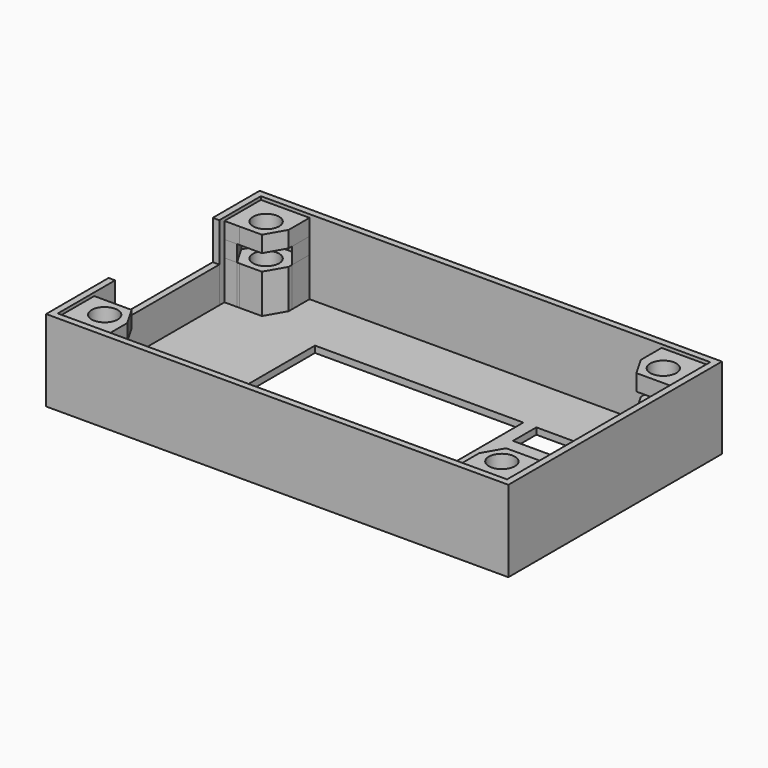
from build123d import *

# Parameters (mm, degrees)
F0_R      = 2
F1_DEPTH  = 7
F2_DEPTH  = 7
F3_DEPTH  = 2.5
F4_START  = 2.5
F1_FACE_R = 2
F4_DEPTH  = 2.5
F0_W      = 32
F0_H      = 23
F0_W_2    = 9.5
F0_H_2    = 4.5
F5_DEPTH  = 1
F6_DEPTH  = 12.5
F0_W_3    = 1
F0_H_3    = 20
F7_DEPTH  = 6.5


with BuildPart() as f1:
    # F0 (on Top) → F1 (new body)
    with BuildSketch(Plane.XY):
        Polygon((56.2425711751, 29.4110085815), (56.2425711751, 36.414245103), (54.3157895307, 36.414245103), (56.0530762776, 33.4181404888), (54.1540001392, 30.1145803152), (50.3434950368, 30.1074484079), (48.7784756274, 32.8064627658), (48.7784756274, 29.4110085815), align=None)
        Polygon((56.0530762776, 33.4181404888), (54.3157895307, 36.414245103), (53.9690040281, 36.414245103), (50.5049084804, 36.4077615509), (48.7784756274, 33.4045250294), (48.7784756274, 32.8064627658), (50.3434950368, 30.1074484079), (54.1540001392, 30.1145803152), align=None)
        with Locations((52.2425711751, 33.4110085815)):
            Circle(F0_R, mode=Mode.SUBTRACT)
    extrude(amount=F1_DEPTH)


with BuildPart() as f1b:
    # F0 (on Top) → F1, piece 2 (new body)
    with BuildSketch(Plane.XY):
        Polygon((-10.8411283625, 36.4077615509), (-12.7574288249, 36.4077615509), (-12.7574288249, 29.4110085815), (-5.2933332772, 29.4110085815), (-5.2933332772, 32.8155396842), (-6.8459998608, 30.1145803152), (-10.6565049632, 30.1074484079), (-12.5679339274, 33.4038766742), align=None)
        Polygon((-10.4950915196, 36.4077615509), (-10.8411283625, 36.4077615509), (-12.5679339274, 33.4038766742), (-10.6565049632, 30.1074484079), (-6.8459998608, 30.1145803152), (-5.2933332772, 32.8155396842), (-5.2933332772, 33.4174921336), (-7.0309959719, 36.414245103), align=None)
        with Locations((-8.7574288249, 33.4110085815)):
            Circle(F0_R, mode=Mode.SUBTRACT)
    extrude(amount=F1_DEPTH)


with BuildPart() as f1c:
    # F0 (on Top) → F1, piece 3 (new body)
    with BuildSketch(Plane.XY):
        Polygon((-5.2933332772, 68.4110085815), (-12.7574288249, 68.4110085815), (-12.7574288249, 61.40777206), (-10.8306471805, 61.40777206), (-12.5679339274, 64.4038766742), (-10.668857789, 67.7074368479), (-6.8583526866, 67.7145687551), (-5.2933332772, 65.0155543972), align=None)
        Polygon((-5.2933332772, 64.4174921336), (-5.2933332772, 65.0155543972), (-6.8583526866, 67.7145687551), (-10.668857789, 67.7074368479), (-12.5679339274, 64.4038766742), (-10.8306471805, 61.40777206), (-10.4838616779, 61.40777206), (-7.0197661302, 61.4142556121), align=None)
        with Locations((-8.7574288249, 64.4110085815)):
            Circle(F0_R, mode=Mode.SUBTRACT)
    extrude(amount=F1_DEPTH)


with BuildPart() as f1d:
    # F0 (on Top) → F1, piece 4 (new body)
    with BuildSketch(Plane.XY):
        Polygon((56.2425711751, 68.4110085815), (48.7784756274, 68.4110085815), (48.7784756274, 65.0064774788), (50.331142211, 67.7074368479), (54.1416473134, 67.7145687551), (56.0530762776, 64.4181404888), (54.3266434245, 61.4149039673), (56.2425711751, 61.4184899011), align=None)
        Polygon((50.331142211, 67.7074368479), (48.7784756274, 65.0064774788), (48.7784756274, 64.4045250294), (50.5161383221, 61.40777206), (53.9802338698, 61.4142556121), (54.3266434245, 61.4149039673), (56.0530762776, 64.4181404888), (54.1416473134, 67.7145687551), align=None)
        with Locations((52.2425711751, 64.4110085815)):
            Circle(F0_R, mode=Mode.SUBTRACT)
    extrude(amount=F1_DEPTH)


with BuildPart() as f2:
    # F0 (on Top) → F2 (new body, through all)
    with BuildSketch(Plane.XY):
        Polygon((56.2425711751, 29.4110085815), (56.2425711751, 36.414245103), (54.3157895307, 36.414245103), (56.0530762776, 33.4181404888), (54.1540001392, 30.1145803152), (50.3434950368, 30.1074484079), (48.7784756274, 32.8064627658), (48.7784756274, 29.4110085815), align=None)
    extrude(amount=F2_DEPTH)


with BuildPart() as f2b:
    # F0 (on Top) → F2, piece 2 (new body, through all)
    with BuildSketch(Plane.XY):
        Polygon((56.2425711751, 68.4110085815), (48.7784756274, 68.4110085815), (48.7784756274, 65.0064774788), (50.331142211, 67.7074368479), (54.1416473134, 67.7145687551), (56.0530762776, 64.4181404888), (54.3266434245, 61.4149039673), (56.2425711751, 61.4184899011), align=None)
    extrude(amount=F2_DEPTH)


with BuildPart() as f2c:
    # F0 (on Top) → F2, piece 3 (new body, through all)
    with BuildSketch(Plane.XY):
        Polygon((-5.2933332772, 68.4110085815), (-12.7574288249, 68.4110085815), (-12.7574288249, 61.40777206), (-10.8306471805, 61.40777206), (-12.5679339274, 64.4038766742), (-10.668857789, 67.7074368479), (-6.8583526866, 67.7145687551), (-5.2933332772, 65.0155543972), align=None)
    extrude(amount=F2_DEPTH)


with BuildPart() as f2d:
    # F0 (on Top) → F2, piece 4 (new body, through all)
    with BuildSketch(Plane.XY):
        Polygon((-10.8411283625, 36.4077615509), (-12.7574288249, 36.4077615509), (-12.7574288249, 29.4110085815), (-5.2933332772, 29.4110085815), (-5.2933332772, 32.8155396842), (-6.8459998608, 30.1145803152), (-10.6565049632, 30.1074484079), (-12.5679339274, 33.4038766742), align=None)
    extrude(amount=F2_DEPTH)


with BuildPart() as f3:
    # F3 (new): a face of the model
    f3_faces = [f2.part.faces().sort_by_distance(p)[0] for p in [
        (56.1402197979, 32.9126268423, 7),
    ]]
    extrude(f3_faces, amount=F3_DEPTH)

    # F1_face (on face) → F4 (join)
    with BuildSketch(Plane(origin=(52.8230493213, 32.5673462874, 7), x_dir=(1, 0, 0), z_dir=(0, 0, 1)).offset(F4_START)):
        Polygon((3.4195218538, -3.1563377059), (3.4195218538, 3.8468988156), (1.1459547068, 3.8468988156), (-2.3181408409, 3.8404152635), (-4.0445736939, 0.837178742), (-4.0445736939, -3.1563377059), align=None)
        with Locations((-0.5804781462, 0.8436622941)):
            Circle(F1_FACE_R, mode=Mode.SUBTRACT)
    extrude(amount=F4_DEPTH)


with BuildPart() as f3b:
    # F3#2 (new): a face of the model
    f3_2_faces = [f2d.part.faces().sort_by_distance(p)[0] for p in [
        (-11.7007240321, 31.7043432897, 7),
    ]]
    extrude(f3_2_faces, amount=F3_DEPTH)


with BuildPart() as f3c:
    # F3#3 (new): a face of the model
    f3_3_faces = [f2c.part.faces().sort_by_distance(p)[0] for p in [
        (-5.9873000269, 66.4164030753, 7),
    ]]
    extrude(f3_3_faces, amount=F3_DEPTH)


with BuildPart() as f3d:
    # F3#4 (new): a face of the model
    f3_4_faces = [f2b.part.faces().sort_by_distance(p)[0] for p in [
        (52.5105234013, 68.3087059901, 7),
    ]]
    extrude(f3_4_faces, amount=F3_DEPTH)


with BuildPart() as f4:
    # F1_face (on face) → F4, piece 2 (new body)
    with BuildSketch(Plane(origin=(52.8230493213, 32.5673462874, 7), x_dir=(1, 0, 0), z_dir=(0, 0, 1)).offset(F4_START)):
        Polygon((-65.5804781462, 3.8404152635), (-65.5804781462, -3.1563377059), (-58.1163825985, -3.1563377059), (-58.1163825985, 0.8501458462), (-59.8540452932, 3.8468988156), (-63.3181408409, 3.8404152635), align=None)
        with Locations((-61.5804781462, 0.8436622941)):
            Circle(F1_FACE_R, mode=Mode.SUBTRACT)
    extrude(amount=F4_DEPTH)


with BuildPart() as f4b:
    # F1_face (on face) → F4, piece 3 (new body)
    with BuildSketch(Plane(origin=(52.8230493213, 32.5673462874, 7), x_dir=(1, 0, 0), z_dir=(0, 0, 1)).offset(F4_START)):
        Polygon((-58.1163825985, 35.8436622941), (-65.5804781462, 35.8436622941), (-65.5804781462, 28.8404257726), (-63.3069109992, 28.8404257726), (-59.8428154515, 28.8469093247), (-58.1163825985, 31.8501458462), align=None)
        with Locations((-61.5804781462, 31.8436622941)):
            Circle(F1_FACE_R, mode=Mode.SUBTRACT)
    extrude(amount=F4_DEPTH)


with BuildPart() as f4c:
    # F1_face (on face) → F4, piece 4 (new body)
    with BuildSketch(Plane(origin=(52.8230493213, 32.5673462874, 7), x_dir=(1, 0, 0), z_dir=(0, 0, 1)).offset(F4_START)):
        Polygon((3.4195218538, 35.8436622941), (-4.0445736939, 35.8436622941), (-4.0445736939, 31.837178742), (-2.3069109992, 28.8404257726), (3.4195218538, 28.8511436137), align=None)
        with Locations((-0.5804781462, 31.8436622941)):
            Circle(F1_FACE_R, mode=Mode.SUBTRACT)
    extrude(amount=F4_DEPTH)


with BuildPart() as f5:
    # F0 (on Top) → F5 (new body)
    with BuildSketch(Plane.XY):
        Polygon((48.7784756274, 68.4110085815), (-5.2933332772, 68.4110085815), (-5.2933332772, 65.0155543972), (-5.2933332772, 64.4174921336), (-7.0197661302, 61.4142556121), (-10.4838616779, 61.40777206), (-10.8306471805, 61.40777206), (-12.7574288249, 61.40777206), (-12.7574288249, 60.4110085815), (-12.7574288249, 40.4110085815), (-12.7574288249, 36.4077615509), (-10.8411283625, 36.4077615509), (-10.4950915196, 36.4077615509), (-7.0309959719, 36.414245103), (-5.2933332772, 33.4174921336), (-5.2933332772, 32.8155396842), (-5.2933332772, 29.4110085815), (48.7784756274, 29.4110085815), (48.7784756274, 32.8064627658), (48.7784756274, 33.4045250294), (50.5049084804, 36.4077615509), (53.9690040281, 36.414245103), (54.3157895307, 36.414245103), (56.2425711751, 36.414245103), (56.2425711751, 61.4184899011), (54.3266434245, 61.4149039673), (53.9802338698, 61.4142556121), (50.5161383221, 61.40777206), (48.7784756274, 64.4045250294), (48.7784756274, 65.0064774788), align=None)
        with Locations((18.7425711751, 47.9110085815)):
            Rectangle(F0_W, F0_H, mode=Mode.SUBTRACT)
        with Locations((41.4925711751, 38.6610085815)):
            Rectangle(F0_W_2, F0_H_2, mode=Mode.SUBTRACT)
        with Locations((41.4925711751, 48.1610085815)):
            Rectangle(F0_W_2, F0_H_2, mode=Mode.SUBTRACT)
        with Locations((41.4925711751, 57.1610085815)):
            Rectangle(F0_W_2, F0_H_2, mode=Mode.SUBTRACT)
    extrude(amount=F5_DEPTH)


with BuildPart() as f5b:
    # F0 (on Top) → F5, piece 2 (new body)
    with BuildSketch(Plane.XY):
        with Locations((-8.7574288249, 64.4110085815)):
            Circle(F0_R)
    extrude(amount=F5_DEPTH)


with BuildPart() as f5c:
    # F0 (on Top) → F5, piece 3 (new body)
    with BuildSketch(Plane.XY):
        with Locations((52.2425711751, 64.4110085815)):
            Circle(F0_R)
    extrude(amount=F5_DEPTH)


with BuildPart() as f5d:
    # F0 (on Top) → F5, piece 4 (new body)
    with BuildSketch(Plane.XY):
        with Locations((52.2425711751, 33.4110085815)):
            Circle(F0_R)
    extrude(amount=F5_DEPTH)


with BuildPart() as f5e:
    # F0 (on Top) → F5, piece 5 (new body)
    with BuildSketch(Plane.XY):
        with Locations((-8.7574288249, 33.4110085815)):
            Circle(F0_R)
    extrude(amount=F5_DEPTH)


with BuildPart() as f6:
    # F0 (on Top) → F6 (new body)
    with BuildSketch(Plane.XY):
        Polygon((-12.7574288249, 61.40777206), (-12.7574288249, 68.4110085815), (-5.2933332772, 68.4110085815), (48.7784756274, 68.4110085815), (56.2425711751, 68.4110085815), (56.2425711751, 61.4184899011), (56.2425711751, 36.414245103), (56.2425711751, 29.4110085815), (48.7784756274, 29.4110085815), (-5.2933332772, 29.4110085815), (-12.7574288249, 29.4110085815), (-12.7574288249, 36.4077615509), (-12.7574288249, 40.4110085815), (-13.7574288249, 40.4110085815), (-13.7574288249, 28.4110085815), (57.2425711751, 28.4110085815), (57.2425711751, 69.4110085815), (-13.7574288249, 69.4110085815), (-13.7574288249, 60.4110085815), (-12.7574288249, 60.4110085815), align=None)
    extrude(amount=F6_DEPTH)


with BuildPart() as f7:
    # F0 (on Top) → F7 (new body)
    with BuildSketch(Plane.XY):
        with Locations((-13.2574288249, 50.4110085815)):
            Rectangle(F0_W_3, F0_H_3)
    extrude(amount=F7_DEPTH)


solid = Compound([f1.part, f1b.part, f1c.part, f1d.part, f2.part, f2b.part, f2c.part, f2d.part, f3.part, f3b.part, f3c.part, f3d.part, f4.part, f4b.part, f4c.part, f5.part, f5b.part, f5c.part, f5d.part, f5e.part, f6.part, f7.part])
